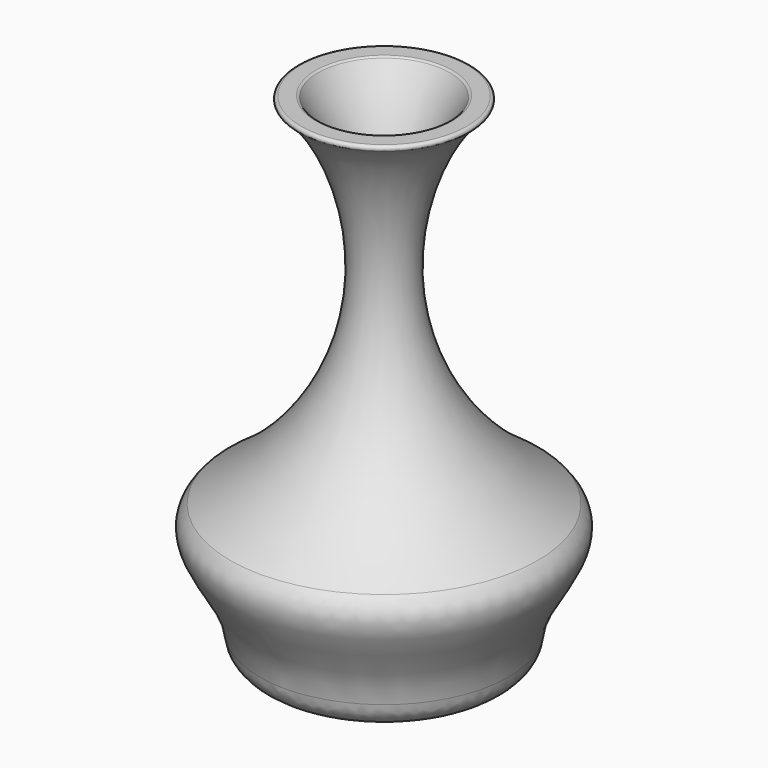
from build123d import *

# Parameters (mm, degrees)
F2_R = 2.54
F5_R = 0.254


with BuildPart() as f1:
    # F0 (on Right) → F1 (revolve)
    with BuildSketch(Plane.YZ):
        with BuildLine():
            Line((-11.4540373906, 0), (0, 0))
            Line((0, 0), (0, 44.247996062))
            Line((0, 44.247996062), (-8.4024788812, 44.247996062))
            add(Edge.make_bspline(
                [(-8.4024788812, 44.247996062), (-4.7157509252, 43.3424599469), (4.7512631863, 24.7377175838), (-13.6710777879, 12.3071158305)],
                knots=[0, 0, 0, 0, 32.3724877698, 32.3724877698, 32.3724877698, 32.3724877698], degree=3))
            add(Edge.make_bspline(
                [(-11.4540373906, 0), (-9.3257743865, 5.2274372429), (-16.7993083596, 9.0142413974), (-13.6710777879, 12.3071158305)],
                knots=[0, 0, 0, 0, 12.5052136402, 12.5052136402, 12.5052136402, 12.5052136402], degree=3))
        make_face()
    revolve(axis=Axis((0, 0, 22.123998031), (0, 0, -1)))

    # F2
    f2_edges = [f1.edges().sort_by_distance(p)[0] for p in [
        (0, 11.454037, 0),
    ]]
    fillet(f2_edges, radius=F2_R)

    # F3 (on Right) → F4 (revolve, cut)
    with BuildSketch(Plane.YZ):
        with BuildLine():
            add(Edge.make_bspline(
                [(7.6878559776, 46.6194488108), (-1.2208370026, 35.850699991), (0, 19.6223533806), (10.2331982926, 12.7468323335)],
                knots=[0, 0, 0, 0, 33.9681161462, 33.9681161462, 33.9681161462, 33.9681161462], degree=3))
            Line((7.6878559776, 46.6194488108), (0, 46.6194488108))
            Line((0, 46.6194488108), (0, 2.3696708959))
            Line((0, 2.3696708959), (9.1563221067, 2.3696708959))
            add(Edge.make_bspline(
                [(10.2331982926, 12.7468323335), (15.8133693039, 10.4951839894), (7.2962641716, 5.306603387), (9.1563221067, 2.3696708959)],
                knots=[0, 0, 0, 0, 10.4328875113, 10.4328875113, 10.4328875113, 10.4328875113], degree=3))
        make_face()
    revolve(axis=Axis((0, 0, 24.4945598533), (0, 0, -1)), mode=Mode.SUBTRACT)

    # F5
    f5_edges = [f1.edges().sort_by_distance(p)[0] for p in [
        (0, 8.402479, 44.247996),
        (0, -5.942803, 44.247996),
    ]]
    fillet(f5_edges, radius=F5_R)


solid = f1.part
